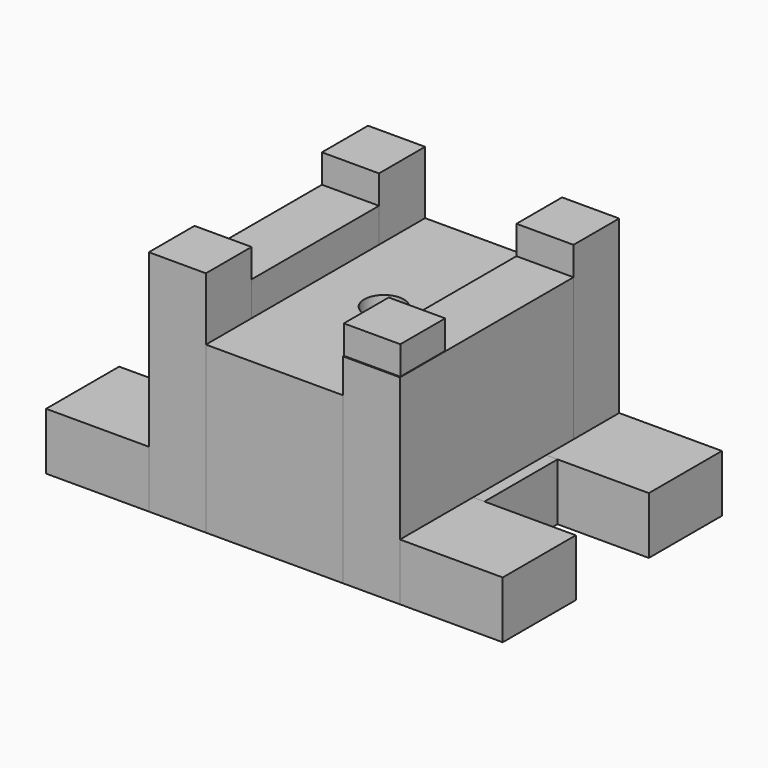
from build123d import *

# Parameters (mm, degrees)
F1_DEPTH = 127
F2_DEPTH = 111.125
F0_R     = 11.020922
F3_DEPTH = 92.075
F4_DEPTH = 31.75
F0_W     = 6.35
F0_H     = 50.8
F5_DEPTH = 31.75


with BuildPart() as f1:
    # F0 (on Top) → F1 (new body)
    with BuildSketch(Plane.XY):
        Polygon((-107.95, 64.560475), (-107.95, 76.2), (-139.7, 76.2), (-139.7, 64.484443), (-139.7, 44.45), (-139.7, 44.159718), (-107.95, 44.159718), align=None)
        Polygon((-107.95, 64.560475), (-107.95, 76.2), (-139.7, 76.2), (-139.7, 64.484443), (-139.7, 44.45), (-139.7, 44.159718), (-107.95, 44.159718), align=None)
        Polygon((0, 76.2), (-31.75, 76.2), (-31.75, 47.939115), (-31.75, 44.45), (0, 44.45), align=None)
        Polygon((-107.95, -51.318158), (-107.95, -44.45), (-139.7, -44.45), (-139.7, -51.39419), (-139.7, -76.2), (-107.95, -76.2), align=None)
        Polygon((-0.322728, -44.372328), (-31.75, -44.372328), (-31.75, -50.97873), (-31.75, -75.553425), (-0.322728, -75.553425), align=None)
    extrude(amount=F1_DEPTH)


with BuildPart() as f2:
    # F0 (on Top) → F2 (new body)
    with BuildSketch(Plane.XY):
        Polygon((-107.95, -44.45), (-107.95, 44.159718), (-139.7, 44.159718), (-139.7, 25.4), (-139.7, -25.4), (-139.7, -44.45), align=None)
        Polygon((0, 44.45), (-31.75, 44.45), (-31.75, -44.372328), (-0.322728, -44.372328), (-0.322728, -75.553425), (-31.75, -75.553425), (-31.75, -76.2), (0, -76.2), (0, -50.902698), (0, -44.45), (0, -25.4), (0, 25.4), (0, 36.746405), align=None)
    extrude(amount=F2_DEPTH)


with BuildPart() as f3:
    # F0 (on Top) → F3 (new body)
    with BuildSketch(Plane.XY):
        Polygon((-31.75, 76.2), (-107.95, 76.2), (-107.95, 64.560475), (-107.95, 44.159718), (-107.95, -44.45), (-107.95, -51.318158), (-107.95, -76.2), (-31.75, -76.2), (-31.75, -75.553425), (-32.060631, -75.553425), (-32.060631, -44.372328), (-31.75, -44.372328), (-31.75, 44.45), (-31.75, 47.939115), align=None)
        with Locations((-69.85, 0)):
            Circle(F0_R, mode=Mode.SUBTRACT)
    extrude(amount=F3_DEPTH)


with BuildPart() as f4:
    # F0 (on Top) → F4 (new body)
    with BuildSketch(Plane.XY):
        Polygon((-139.7, 64.484443), (-139.7, 76.2), (-196.85, 76.2), (-196.85, 25.4), (-146.05, 25.4), (-139.7, 25.4), (-139.7, 44.159718), (-139.7, 44.45), align=None)
        Polygon((-139.7, -51.39419), (-139.7, -44.45), (-139.7, -25.4), (-146.05, -25.4), (-196.85, -25.4), (-196.85, -76.2), (-139.7, -76.2), align=None)
        Polygon((57.15, 76.2), (0, 76.2), (0, 44.45), (0, 36.746405), (0, 25.4), (6.35, 25.4), (57.15, 25.4), align=None)
        Polygon((6.35, -25.4), (0, -25.4), (0, -44.45), (0, -50.902698), (0, -76.2), (57.15, -76.2), (57.15, -25.4), align=None)
    extrude(amount=F4_DEPTH)


with BuildPart() as f5:
    # F0 (on Top) → F5 (new body)
    with BuildSketch(Plane.XY):
        with Locations((-142.875, 0)):
            Rectangle(F0_W, F0_H)
        with Locations((3.175, 0)):
            Rectangle(F0_W, F0_H)
    extrude(amount=F5_DEPTH)


solid = Compound([f1.part, f2.part, f3.part, f4.part, f5.part])
